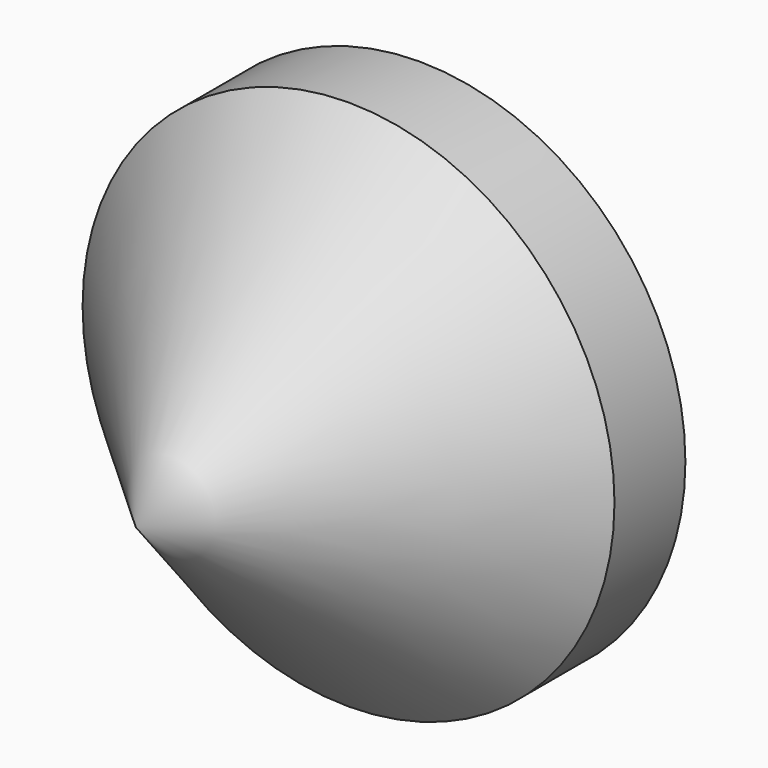
from build123d import *

# Parameters (mm, degrees)
F0_R     = 3
F1_DEPTH = 4
F2_SIZE  = 3


with BuildPart() as f1:
    # F0 (on Front) → F1 (new body)
    with BuildSketch(Plane.XZ):
        Circle(F0_R)
    extrude(amount=-F1_DEPTH)

    # F2
    f2_edges = [f1.edges().sort_by_distance(p)[0] for p in [
        (-3, 0, 0),
    ]]
    chamfer(f2_edges, length=F2_SIZE)


solid = f1.part
